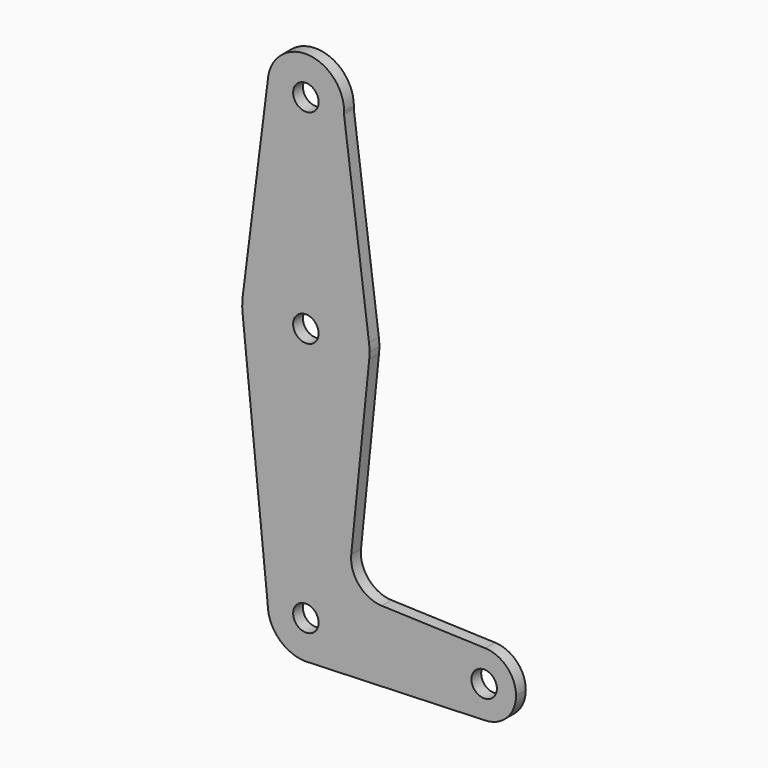
from build123d import *

# Parameters (mm, degrees)
F0_R     = 3.175
F1_DEPTH = 3.048


with BuildPart() as f1:
    # F0 (on Front) → F1 (new body)
    with BuildSketch(Plane.XZ):
        with BuildLine():
            ThreePointArc((9.504424, 113.674258), (9.519855, 113.98696), (9.525, 114.3))
            ThreePointArc((9.525, 114.3), (0.309923, 123.819957), (-9.504832, 114.919517))
            ThreePointArc((-9.504832, 114.919517), (-0.62263, 104.795372), (9.504424, 113.674258))
        make_face()
        with Locations((0, 114.3)):
            Circle(F0_R, mode=Mode.SUBTRACT)
        with BuildLine():
            ThreePointArc((9.504424, 113.674258), (-0.62263, 104.795372), (-9.504832, 114.919517))
            Line((-9.504832, 114.919517), (-15.749799, 65.489837))
            ThreePointArc((-15.749799, 65.489837), (-0.025579, 79.374979), (15.743305, 65.54058))
            Line((15.743305, 65.54058), (9.504424, 113.674258))
        make_face()
        with BuildLine():
            ThreePointArc((15.743305, 65.54058), (-0.025579, 79.374979), (-15.749799, 65.489837))
            ThreePointArc((-15.749799, 65.489837), (-15.873785, 63.696368), (-15.794203, 61.90038))
            ThreePointArc((-15.794203, 61.90038), (0, 47.625), (15.794203, 61.90038))
            ThreePointArc((15.794203, 61.90038), (15.854788, 62.699171), (15.875, 63.5))
            ThreePointArc((15.875, 63.5), (15.842042, 64.522413), (15.743305, 65.54058))
        make_face()
        with Locations((0, 63.5)):
            Circle(F0_R, mode=Mode.SUBTRACT)
        with BuildLine():
            ThreePointArc((15.794203, 61.90038), (0, 47.625), (-15.794203, 61.90038))
            Line((-15.794203, 61.90038), (-9.525, 0))
            ThreePointArc((-9.525, 0), (0, 9.525), (9.525, 0))
            ThreePointArc((9.525, 0), (6.970557, -6.491299), (0.677344, -9.500886))
            Line((0.677344, -9.500886), (44.732405, -7.932475))
            ThreePointArc((44.732405, -7.932475), (36.5125, 0), (44.732405, 7.932475))
            Line((44.732405, 7.932475), (18.934103, 8.850924))
            ThreePointArc((18.934103, 8.850924), (13.224974, 11.57098), (11.307223, 17.59718))
            Line((11.307223, 17.59718), (15.794203, 61.90038))
        make_face()
        with BuildLine():
            ThreePointArc((9.525, 0), (0, 9.525), (-9.525, 0))
            ThreePointArc((-9.525, 0), (-6.735192, -6.735192), (0, -9.525))
            Line((0, -9.525), (0.677344, -9.500886))
            ThreePointArc((0.677344, -9.500886), (6.970557, -6.491299), (9.525, 0))
        make_face()
        Circle(F0_R, mode=Mode.SUBTRACT)
        with BuildLine():
            Line((0.677344, -9.500886), (0, -9.525))
            ThreePointArc((0, -9.525), (0.338886, -9.51897), (0.677344, -9.500886))
        make_face()
        with BuildLine():
            ThreePointArc((52.3875, 0), (50.161633, 5.51191), (44.732405, 7.932475))
            ThreePointArc((44.732405, 7.932475), (36.5125, 0), (44.732405, -7.932475))
            ThreePointArc((44.732405, -7.932475), (50.161633, -5.51191), (52.3875, 0))
        make_face()
        with Locations((44.45, 0)):
            Circle(F0_R, mode=Mode.SUBTRACT)
    extrude(amount=F1_DEPTH)


solid = f1.part
